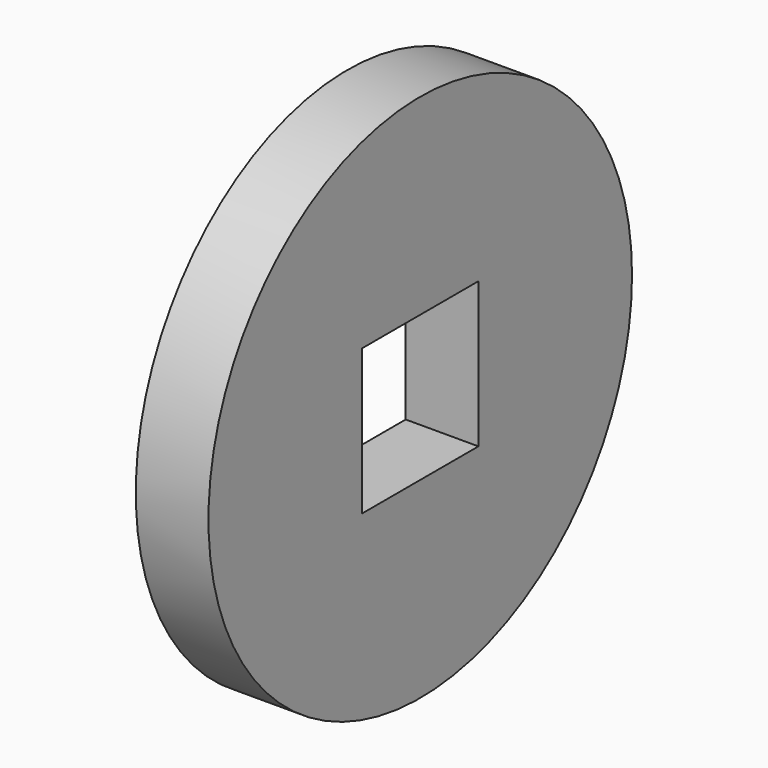
from build123d import *

# Parameters (mm, degrees)
F0_R     = 92.489086
F0_W     = 50.8
F0_H     = 50.8
F1_DEPTH = 12.7


with BuildPart() as f1:
    # F0 (on Right) → F1 (new body, symmetric)
    with BuildSketch(Plane.YZ):
        Circle(F0_R)
        Rectangle(F0_W, F0_H, mode=Mode.SUBTRACT)
    extrude(amount=F1_DEPTH, both=True)


solid = f1.part
